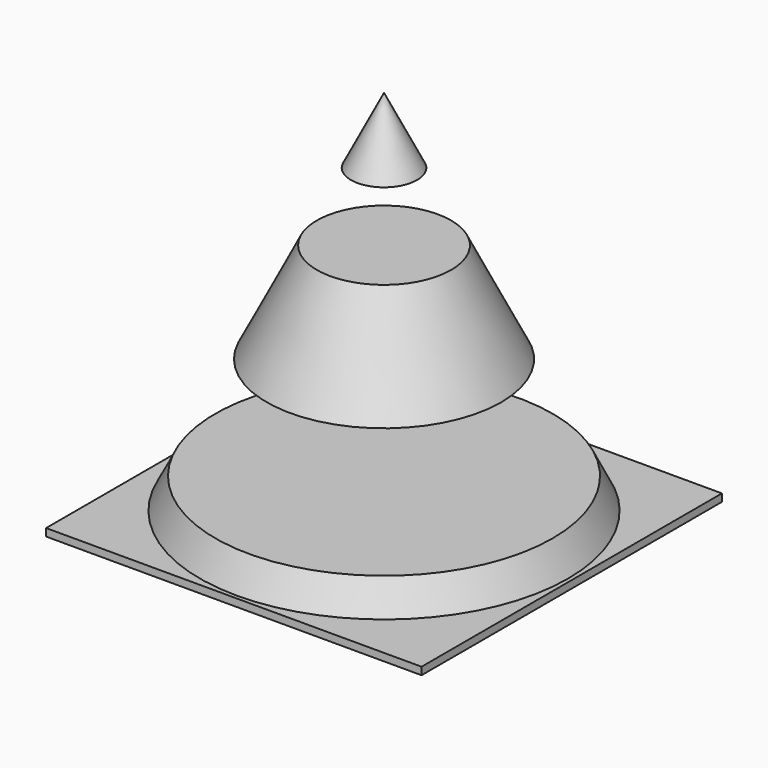
from build123d import *

# Parameters (mm, degrees)
F2_W     = 50
F2_H     = 50
F3_DEPTH = 1


with BuildPart() as f1:
    # F0 (on Front) → F1 (revolve)
    with BuildSketch(Plane.XZ):
        Polygon((0, 5.066604), (0, 0), (25, 0), (22.466698, 5.066604), align=None)
        Polygon((4.40149, 41.197021), (0, 50), (0, 41.197021), align=None)
        Polygon((8.937266, 32.125468), (0, 32.125468), (0, 18.782796), (15.608602, 18.782796), align=None)
    revolve(axis=Axis((0, 0, 25.454132), (0, 0, -1)))

    # F2 (on Top) → F3 (join)
    with BuildSketch(Plane.XY):
        with Locations((-0.000951, -0.000403)):
            Rectangle(F2_W, F2_H)
    extrude(amount=F3_DEPTH)


solid = f1.part
